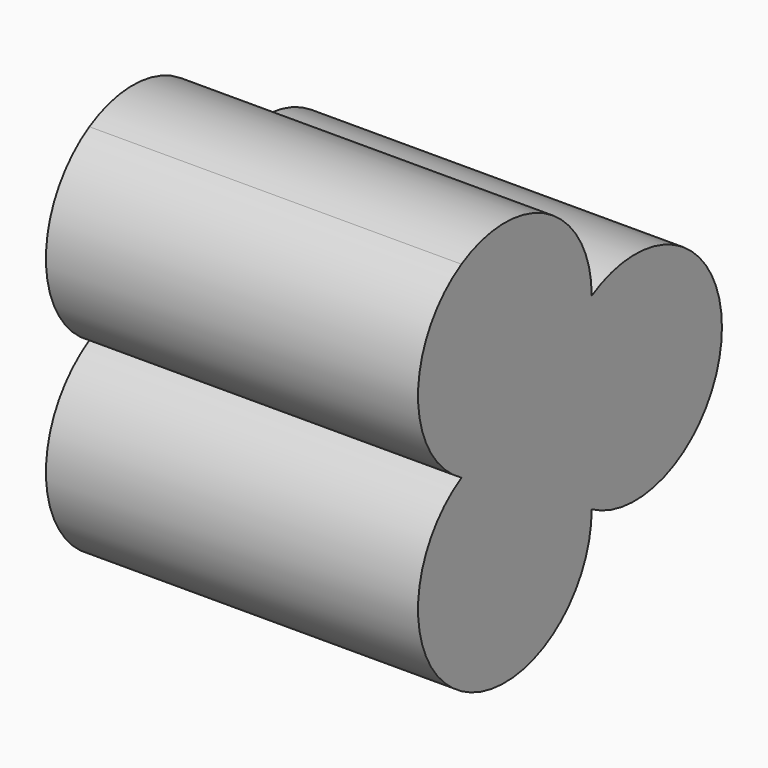
from build123d import *

# Parameters (mm, degrees)
F1_DEPTH = 60


with BuildPart() as f1:
    # F0 (on Right) → F1 (new body)
    with BuildSketch(Plane.YZ):
        with BuildLine():
            Line((0, 0), (-17.5, 30.3108891325))
            ThreePointArc((-17.5, 30.3108891325), (-26.25, 15.1554445662), (-17.5, 0))
            ThreePointArc((-17.5, 0), (-8.75, 2.3445554338), (0, 0))
        make_face()
        with BuildLine():
            Line((0, 0), (-17.5, -30.3108891325))
            ThreePointArc((-17.5, -30.3108891325), (0, -30.3108891325), (8.75, -15.1554445662))
            ThreePointArc((8.75, -15.1554445662), (2.3445554338, -8.75), (0, 0))
        make_face()
        with BuildLine():
            ThreePointArc((-17.5, 0), (-26.25, -15.1554445662), (-17.5, -30.3108891325))
            Line((-17.5, -30.3108891325), (0, 0))
            ThreePointArc((0, 0), (-8.75, -2.3445554338), (-17.5, 0))
        make_face()
        with BuildLine():
            Line((0, 0), (35, 0))
            ThreePointArc((35, 0), (26.25, 15.1554445662), (8.75, 15.1554445662))
            ThreePointArc((8.75, 15.1554445662), (6.4054445662, 6.4054445662), (0, 0))
        make_face()
        with BuildLine():
            ThreePointArc((8.75, -15.1554445662), (26.25, -15.1554445662), (35, 0))
            Line((35, 0), (0, 0))
            ThreePointArc((0, 0), (6.4054445662, -6.4054445662), (8.75, -15.1554445662))
        make_face()
        with BuildLine():
            ThreePointArc((8.75, 15.1554445662), (0, 30.3108891325), (-17.5, 30.3108891325))
            Line((-17.5, 30.3108891325), (0, 0))
            ThreePointArc((0, 0), (2.3445554338, 8.75), (8.75, 15.1554445662))
        make_face()
        with BuildLine():
            ThreePointArc((-17.5, 0), (-8.75, -2.3445554338), (0, 0))
            ThreePointArc((0, 0), (-8.75, 2.3445554338), (-17.5, 0))
        make_face()
        with BuildLine():
            ThreePointArc((8.75, -15.1554445662), (6.4054445662, -6.4054445662), (0, 0))
            ThreePointArc((0, 0), (2.3445554338, -8.75), (8.75, -15.1554445662))
        make_face()
        with BuildLine():
            ThreePointArc((8.75, 15.1554445662), (2.3445554338, 8.75), (0, 0))
            ThreePointArc((0, 0), (6.4054445662, 6.4054445662), (8.75, 15.1554445662))
        make_face()
    extrude(amount=F1_DEPTH)


solid = f1.part
